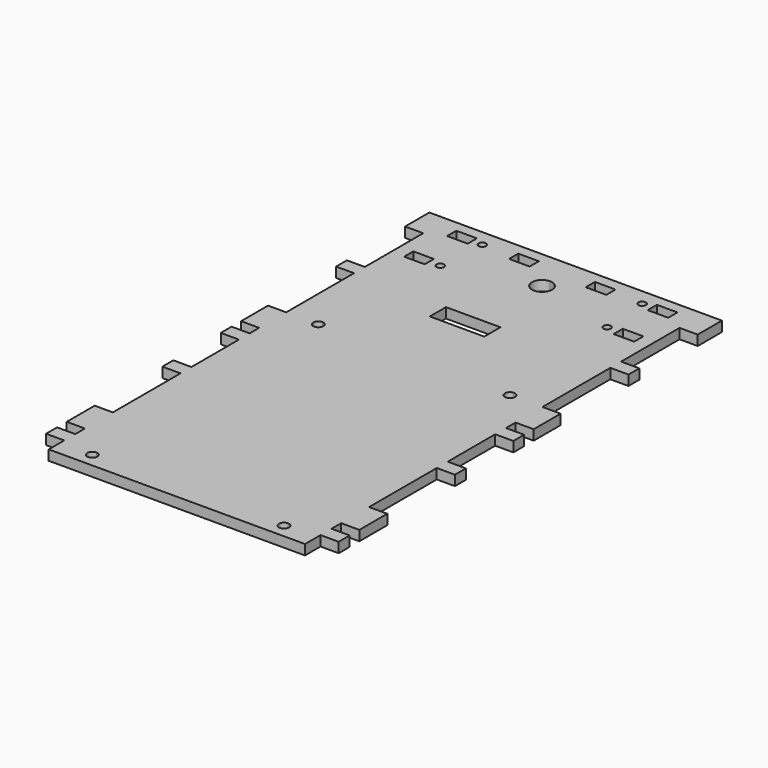
from build123d import *

# Parameters (mm, degrees)
F0_W     = 9
F0_H     = 16.7
F0_H_2   = 6.7
F0_W_2   = 16
F0_H_3   = 5.9
F0_W_3   = 95
F0_W_4   = 8.8775146961
F0_W_5   = 6.5
F0_H_4   = 5.7
F0_R     = 1.85
F0_W_6   = 8.7
F0_W_7   = 13.9
F0_H_5   = 29.4
F0_H_6   = 6.8
F0_H_7   = 41.9
F0_H_8   = 6
F0_H_9   = 17.3
F1_DEPTH = 5


with BuildPart() as f1:
    # F0 (on Top) → F1 (new body)
    with BuildSketch(Plane.XY):
        with BuildLine():
            Line((-77.4, 165.8051506788), (-77.4, 123.8051506788))
            Line((-77.4, 123.8051506788), (-63.8979991994, 123.8051506788))
            ThreePointArc((-63.8979991994, 123.8051506788), (-63.1320508076, 125.5079263165), (-61.4, 126.2051506788))
            Line((-61.4, 126.2051506788), (-61.4, 165.8051506788))
            Line((-61.4, 165.8051506788), (-77.4, 165.8051506788))
        make_face()
        with BuildLine():
            Line((-77.4, 123.8051506788), (-77.4, 107.1051506788))
            Line((-77.4, 107.1051506788), (-61.4, 107.1051506788))
            Line((-61.4, 107.1051506788), (-61.4, 121.2051506788))
            ThreePointArc((-61.4, 121.2051506788), (-63.2027756377, 121.9730998712), (-63.8979991994, 123.8051506788))
            Line((-63.8979991994, 123.8051506788), (-77.4, 123.8051506788))
        make_face()
        with BuildLine():
            Line((-31.8387573481, 165.8051506788), (-61.4, 165.8051506788))
            Line((-61.4, 165.8051506788), (-61.4, 126.2051506788))
            ThreePointArc((-61.4, 126.2051506788), (-59.6679491924, 125.5079263165), (-58.9020008006, 123.8051506788))
            Line((-58.9020008006, 123.8051506788), (31.1020008006, 123.8051506788))
            ThreePointArc((31.1020008006, 123.8051506788), (31.8679491924, 125.5079263165), (33.6, 126.2051506788))
            Line((33.6, 126.2051506788), (33.6, 165.8051506788))
            Line((33.6, 165.8051506788), (-4.8387573481, 165.8051506788))
            Line((-4.8387573481, 165.8051506788), (-4.8387573481, 155.8051506788))
            Line((-4.8387573481, 155.8051506788), (-31.8387573481, 155.8051506788))
            Line((-31.8387573481, 155.8051506788), (-31.8387573481, 165.8051506788))
        make_face()
        with BuildLine():
            Line((-61.4, 121.2051506788), (-61.4, 107.1051506788))
            Line((-61.4, 107.1051506788), (33.6, 107.1051506788))
            Line((33.6, 107.1051506788), (33.6, 121.2051506788))
            ThreePointArc((33.6, 121.2051506788), (31.7972243623, 121.9730998712), (31.1020008006, 123.8051506788))
            Line((31.1020008006, 123.8051506788), (-58.9020008006, 123.8051506788))
            ThreePointArc((-58.9020008006, 123.8051506788), (-58.9005002502, 123.7551606858), (-58.9, 123.7051506788))
            ThreePointArc((-58.9, 123.7051506788), (-59.632233047, 121.9373837258), (-61.4, 121.2051506788))
        make_face()
        with BuildLine():
            Line((33.6, 121.2051506788), (33.6, 107.1051506788))
            Line((33.6, 107.1051506788), (49.6, 107.1051506788))
            Line((49.6, 107.1051506788), (49.6, 123.8051506788))
            Line((49.6, 123.8051506788), (36.0979991994, 123.8051506788))
            ThreePointArc((36.0979991994, 123.8051506788), (36.0994997498, 123.7551606858), (36.1, 123.7051506788))
            ThreePointArc((36.1, 123.7051506788), (35.367766953, 121.9373837258), (33.6, 121.2051506788))
        make_face()
        with Locations((54.1, 115.4551506788)):
            Rectangle(F0_W, F0_H)
        with Locations((-81.9, 115.4551506788)):
            Rectangle(F0_W, F0_H)
        with Locations((-81.9, 97.8551506788)):
            Rectangle(F0_W, F0_H_2)
        with Locations((-69.4, 97.8551506788)):
            Rectangle(F0_W_2, F0_H_2)
        with Locations((-69.4, 104.1551506788)):
            Rectangle(F0_W_2, F0_H_3)
        with Locations((-13.9, 104.1551506788)):
            Rectangle(F0_W_3, F0_H_3)
        with Locations((-13.9, 97.8551506788)):
            Rectangle(F0_W_3, F0_H_2)
        with Locations((41.6, 97.8551506788)):
            Rectangle(F0_W_2, F0_H_2)
        with Locations((41.6, 104.1551506788)):
            Rectangle(F0_W_2, F0_H_3)
        with Locations((54.1, 97.8551506788)):
            Rectangle(F0_W, F0_H_2)
        with BuildLine():
            Line((36.0979991994, 123.8051506788), (49.6, 123.8051506788))
            Line((49.6, 123.8051506788), (49.6, 165.8051506788))
            Line((49.6, 165.8051506788), (33.6, 165.8051506788))
            Line((33.6, 165.8051506788), (33.6, 126.2051506788))
            ThreePointArc((33.6, 126.2051506788), (35.3320508076, 125.5079263165), (36.0979991994, 123.8051506788))
        make_face()
        with Locations((54.1, 169.1551506788)):
            Rectangle(F0_W, F0_H_2)
        Polygon((-77.4, 172.5051506788), (-77.4, 165.8051506788), (-61.4, 165.8051506788), (-31.8387573481, 165.8051506788), (-18.3387573481, 165.8051506788), (-4.8387573481, 165.8051506788), (33.6, 165.8051506788), (49.6, 165.8051506788), (49.6, 172.5051506788), (-8.3387573481, 172.5051506788), (-28.3387573481, 172.5051506788), align=None)
        with Locations((-81.8387573481, 169.1551506788)):
            Rectangle(F0_W_4, F0_H_2)
        Polygon((-77.4, 188.7051506788), (-77.4, 172.5051506788), (-28.3387573481, 172.5051506788), (-8.3387573481, 172.5051506788), (49.6, 172.5051506788), (49.6, 188.7051506788), (43.1, 188.7051506788), (32.9, 188.7051506788), (-60.7, 188.7051506788), (-70.9, 188.7051506788), align=None)
        with Locations((-74.15, 191.5551506788)):
            Rectangle(F0_W_5, F0_H_4)
        Polygon((-60.7, 191.5551506788), (-60.7, 188.7051506788), (32.9, 188.7051506788), (32.9, 191.5551506788), (32.9, 194.4051506788), (-60.7, 194.4051506788), align=None)
        with BuildLine():
            ThreePointArc((-53.35, 191.5551506788), (-55.2, 189.7051506788), (-57.05, 191.5551506788))
            ThreePointArc((-57.05, 191.5551506788), (-55.2, 193.4051506788), (-53.35, 191.5551506788))
        make_face(mode=Mode.SUBTRACT)
        with Locations((27.4, 191.5551506788)):
            Circle(F0_R, mode=Mode.SUBTRACT)
        with Locations((46.35, 191.5551506788)):
            Rectangle(F0_W_5, F0_H_4)
        Polygon((-77.4, 208.7051506788), (-77.4, 194.4051506788), (-70.9, 194.4051506788), (-60.7, 194.4051506788), (32.9, 194.4051506788), (43.1, 194.4051506788), (49.6, 194.4051506788), (49.6, 208.7051506788), (-13.9, 208.7051506788), align=None)
        with BuildLine():
            ThreePointArc((-8.9, 202.9051506788), (-17.4355339059, 199.3696167728), (-13.9, 207.9051506788))
            ThreePointArc((-13.9, 207.9051506788), (-10.3644660941, 206.4406845847), (-8.9, 202.9051506788))
        make_face(mode=Mode.SUBTRACT)
        Polygon((-86.4, 208.7051506788), (-77.4, 208.7051506788), (-77.4, 212.6051506788), (-77.4, 218.3051506788), (-77.4, 223.7051506788), (-86.4, 223.7051506788), align=None)
        with Locations((-73.05, 215.4551506788)):
            Rectangle(F0_W_6, F0_H_4)
        Polygon((-77.4, 212.6051506788), (-77.4, 208.7051506788), (-13.9, 208.7051506788), (-13.9, 212.6051506788), (-27.8, 212.6051506788), (-38, 212.6051506788), (-58.5, 212.6051506788), (-68.7, 212.6051506788), align=None)
        Polygon((-77.4, 223.7051506788), (-77.4, 218.3051506788), (-68.7, 218.3051506788), (-58.5, 218.3051506788), (-38, 218.3051506788), (-27.8, 218.3051506788), (-13.9, 218.3051506788), (-13.9, 223.7051506788), align=None)
        Polygon((-58.5, 215.4551506788), (-58.5, 212.6051506788), (-38, 212.6051506788), (-38, 218.3051506788), (-58.5, 218.3051506788), align=None)
        with BuildLine():
            ThreePointArc((-51.65, 215.4551506788), (-53.5, 213.6051506788), (-55.35, 215.4551506788))
            ThreePointArc((-55.35, 215.4551506788), (-53.5, 217.3051506788), (-51.65, 215.4551506788))
        make_face(mode=Mode.SUBTRACT)
        with Locations((-20.85, 215.4551506788)):
            Rectangle(F0_W_7, F0_H_4)
        with Locations((-6.95, 215.4551506788)):
            Rectangle(F0_W_7, F0_H_4)
        Polygon((-13.9, 212.6051506788), (-13.9, 208.7051506788), (49.6, 208.7051506788), (49.6, 212.6051506788), (40.9, 212.6051506788), (30.7, 212.6051506788), (10.2, 212.6051506788), (0, 212.6051506788), align=None)
        Polygon((-13.9, 223.7051506788), (-13.9, 218.3051506788), (0, 218.3051506788), (10.2, 218.3051506788), (30.7, 218.3051506788), (40.9, 218.3051506788), (49.6, 218.3051506788), (49.6, 223.7051506788), align=None)
        Polygon((10.2, 218.3051506788), (10.2, 212.6051506788), (30.7, 212.6051506788), (30.7, 215.4551506788), (30.7, 218.3051506788), align=None)
        with Locations((25.7, 215.4551506788)):
            Circle(F0_R, mode=Mode.SUBTRACT)
        with Locations((45.25, 215.4551506788)):
            Rectangle(F0_W_6, F0_H_4)
        Polygon((49.6, 212.6051506788), (49.6, 208.7051506788), (58.6, 208.7051506788), (58.6, 223.7051506788), (49.6, 223.7051506788), (49.6, 218.3051506788), align=None)
        with Locations((-13.9, 79.8051506788)):
            Rectangle(F0_W_3, F0_H_5)
        with Locations((-69.4, 79.8051506788)):
            Rectangle(F0_W_2, F0_H_5)
        with Locations((41.6, 79.8051506788)):
            Rectangle(F0_W_2, F0_H_5)
        with Locations((41.6, 61.7051506788)):
            Rectangle(F0_W_2, F0_H_6)
        with Locations((54.1, 61.7051506788)):
            Rectangle(F0_W, F0_H_6)
        with Locations((-69.4, 61.7051506788)):
            Rectangle(F0_W_2, F0_H_6)
        with Locations((-81.9, 61.7051506788)):
            Rectangle(F0_W, F0_H_6)
        with Locations((-69.4, 37.3551506788)):
            Rectangle(F0_W_2, F0_H_7)
        with Locations((-13.9, 37.3551506788)):
            Rectangle(F0_W_3, F0_H_7)
        with Locations((41.6, 37.3551506788)):
            Rectangle(F0_W_2, F0_H_7)
        with Locations((-13.9, 61.7051506788)):
            Rectangle(F0_W_3, F0_H_6)
        with BuildLine():
            Line((-77.4, -13.6948493212), (-77.4, -23.2948493212))
            Line((-77.4, -23.2948493212), (-61.4, -23.2948493212))
            Line((-61.4, -23.2948493212), (-61.4, -18.7948493212))
            ThreePointArc((-61.4, -18.7948493212), (-63.9, -16.2948493212), (-61.4, -13.7948493212))
            Line((-61.4, -13.7948493212), (-61.4, -13.6948493212))
            Line((-61.4, -13.6948493212), (-77.4, -13.6948493212))
        make_face()
        with Locations((-69.4, -10.2948493212)):
            Rectangle(F0_W_2, F0_H_6)
        with Locations((-81.9, -10.2948493212)):
            Rectangle(F0_W, F0_H_6)
        with Locations((-69.4, -3.8948493212)):
            Rectangle(F0_W_2, F0_H_8)
        with Locations((-69.4, 7.7551506788)):
            Rectangle(F0_W_2, F0_H_9)
        with Locations((-81.9, 7.7551506788)):
            Rectangle(F0_W, F0_H_9)
        with Locations((-13.9, 7.7551506788)):
            Rectangle(F0_W_3, F0_H_9)
        with Locations((41.6, 7.7551506788)):
            Rectangle(F0_W_2, F0_H_9)
        with Locations((54.1, 7.7551506788)):
            Rectangle(F0_W, F0_H_9)
        with Locations((-13.9, -3.8948493212)):
            Rectangle(F0_W_3, F0_H_8)
        with Locations((-13.9, -10.2948493212)):
            Rectangle(F0_W_3, F0_H_6)
        with BuildLine():
            Line((-61.4, -18.7948493212), (-61.4, -23.2948493212))
            Line((-61.4, -23.2948493212), (33.6, -23.2948493212))
            Line((33.6, -23.2948493212), (33.6, -18.7948493212))
            ThreePointArc((33.6, -18.7948493212), (31.1, -16.2948493212), (33.6, -13.7948493212))
            Line((33.6, -13.7948493212), (33.6, -13.6948493212))
            Line((33.6, -13.6948493212), (-61.4, -13.6948493212))
            Line((-61.4, -13.6948493212), (-61.4, -13.7948493212))
            ThreePointArc((-61.4, -13.7948493212), (-59.632233047, -14.5270823683), (-58.9, -16.2948493212))
            ThreePointArc((-58.9, -16.2948493212), (-59.632233047, -18.0626162742), (-61.4, -18.7948493212))
        make_face()
        with BuildLine():
            Line((33.6, -18.7948493212), (33.6, -23.2948493212))
            Line((33.6, -23.2948493212), (49.6, -23.2948493212))
            Line((49.6, -23.2948493212), (49.6, -13.6948493212))
            Line((49.6, -13.6948493212), (33.6, -13.6948493212))
            Line((33.6, -13.6948493212), (33.6, -13.7948493212))
            ThreePointArc((33.6, -13.7948493212), (35.367766953, -14.5270823683), (36.1, -16.2948493212))
            ThreePointArc((36.1, -16.2948493212), (35.367766953, -18.0626162742), (33.6, -18.7948493212))
        make_face()
        with Locations((41.6, -10.2948493212)):
            Rectangle(F0_W_2, F0_H_6)
        with Locations((41.6, -3.8948493212)):
            Rectangle(F0_W_2, F0_H_8)
        with Locations((54.1, -10.2948493212)):
            Rectangle(F0_W, F0_H_6)
    extrude(amount=F1_DEPTH)


solid = f1.part
